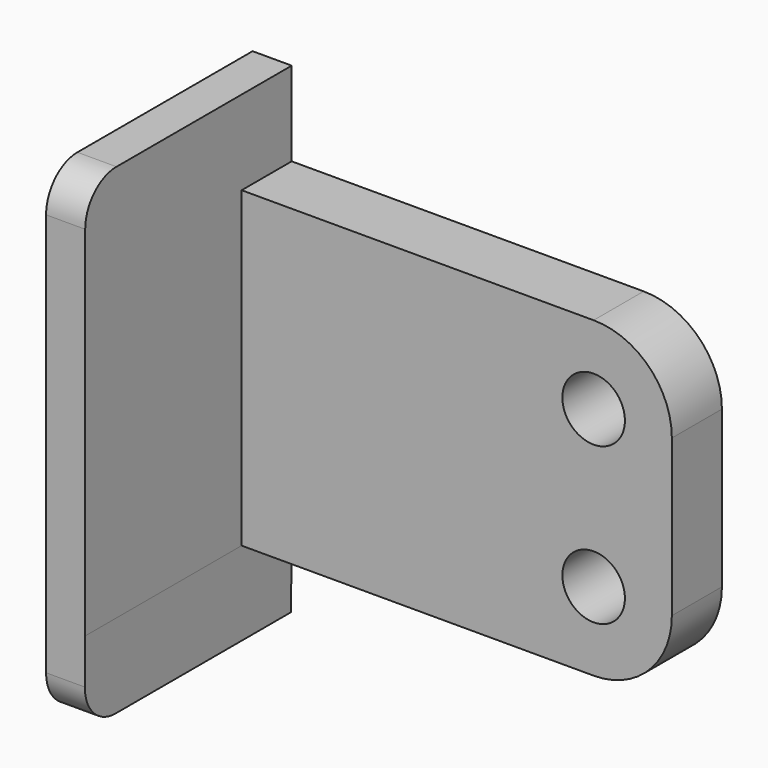
from build123d import *

# Parameters (mm, degrees)
F0_W     = 127
F0_H     = 273.558
F0_H_2   = 431.8
F0_R     = 101.6
F0_H_3   = 152.4
F0_W_2   = 1397
F1_DEPTH = 203.2
F2_DEPTH = 838.2
F4_R     = 127


with BuildPart() as f1:
    # F0 (on Front) → F1 (new body)
    with BuildSketch(Plane.XZ):
        with Locations((216.0754676017, 341.5033780212)):
            Rectangle(F0_W, F0_H)
        with Locations((216.0754676017, -11.1756219788)):
            Rectangle(F0_W, F0_H_2)
        with BuildLine():
            Line((1422.5754676017, 204.7243780212), (279.5754676017, 204.7243780212))
            Line((279.5754676017, 204.7243780212), (279.5754676017, -227.0756219788))
            Line((279.5754676017, -227.0756219788), (1676.5754676017, -227.0756219788))
            Line((1676.5754676017, -227.0756219788), (1676.5754676017, -49.2756219788))
            ThreePointArc((1676.5754676017, -49.2756219788), (1602.1805900231, 130.3295004426), (1422.5754676017, 204.7243780212))
        make_face()
        with Locations((1422.5754676017, -49.2756219788)):
            Circle(F0_R, mode=Mode.SUBTRACT)
        with Locations((216.0754676017, -303.2756219788)):
            Rectangle(F0_W, F0_H_3)
        with Locations((978.0754676017, -303.2756219788)):
            Rectangle(F0_W_2, F0_H_3)
        with Locations((216.0754676017, -595.3756219788)):
            Rectangle(F0_W, F0_H_2)
        with BuildLine():
            Line((1676.5754676017, -379.4756219788), (279.5754676017, -379.4756219788))
            Line((279.5754676017, -379.4756219788), (279.5754676017, -811.2756219788))
            Line((279.5754676017, -811.2756219788), (1422.5754676017, -811.2756219788))
            ThreePointArc((1422.5754676017, -811.2756219788), (1602.1805900231, -736.8807444001), (1676.5754676017, -557.2756219788))
            Line((1676.5754676017, -557.2756219788), (1676.5754676017, -379.4756219788))
        make_face()
        with Locations((1422.5754676017, -557.2756219788)):
            Circle(F0_R, mode=Mode.SUBTRACT)
        Polygon((279.5754676017, -811.2756219788), (152.5754676017, -811.2756219788), (152.5754676017, -1084.8336219788), (277.5078122768, -1084.8336219788), align=None)
    extrude(amount=F1_DEPTH)

    # F0 (on Front) → F2 (join)
    with BuildSketch(Plane.XZ):
        Polygon((279.5754676017, -811.2756219788), (152.5754676017, -811.2756219788), (152.5754676017, -1084.8336219788), (277.5078122768, -1084.8336219788), align=None)
        with Locations((216.0754676017, -595.3756219788)):
            Rectangle(F0_W, F0_H_2)
        with Locations((216.0754676017, -303.2756219788)):
            Rectangle(F0_W, F0_H_3)
        with Locations((216.0754676017, -11.1756219788)):
            Rectangle(F0_W, F0_H_2)
        with Locations((216.0754676017, 341.5033780212)):
            Rectangle(F0_W, F0_H)
    extrude(amount=F2_DEPTH)

    # F4
    f4_edges = [f1.edges().sort_by_distance(p)[0] for p in [
        (216.075468, -838.2, 478.282378),
        (215.04164, -838.2, -1084.833622),
    ]]
    fillet(f4_edges, radius=F4_R)


solid = f1.part
